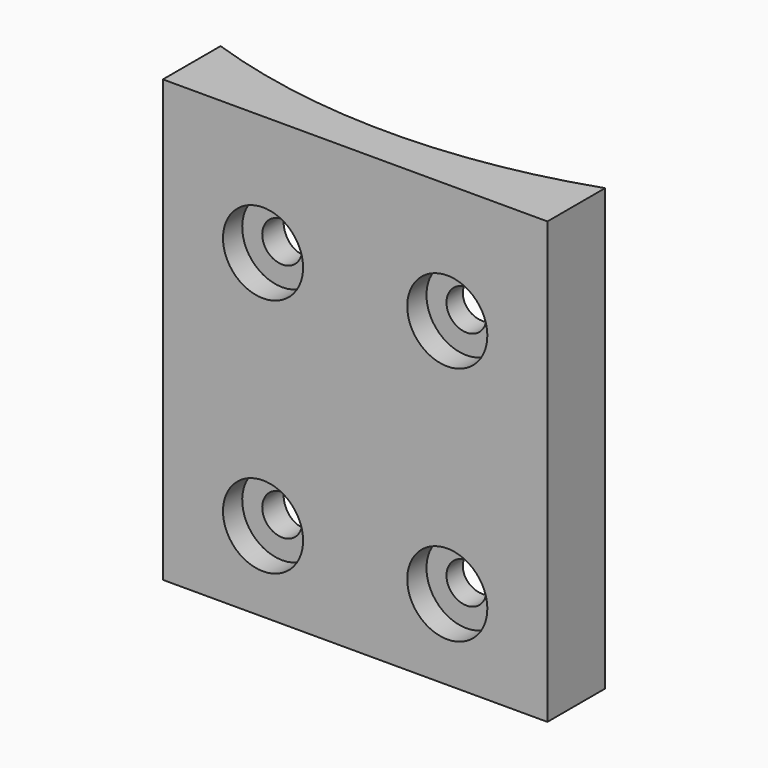
from build123d import *

# Parameters (mm, degrees)
CYLINDER1836_R              = 5
CYLINDER1836_DEPTH          = 5
CYLINDER1839_R              = 5
CYLINDER1839_DEPTH          = 5
COMPOUND945_PLACEMENT_ANGLE = 90
CYLINDER1837_R              = 5
CYLINDER1837_DEPTH          = 5
CYLINDER1838_R              = 5
CYLINDER1838_DEPTH          = 5
COMPOUND944_PLACEMENT_ANGLE = 90
CYLINDER1834_R              = 2.5
CYLINDER1834_DEPTH          = 40
CYLINDER1835_R              = 2.5
CYLINDER1835_DEPTH          = 40
COMPOUND934_PLACEMENT_ANGLE = 90
CYLINDER1832_R              = 2.5
CYLINDER1832_DEPTH          = 40
CYLINDER1833_R              = 2.5
CYLINDER1833_DEPTH          = 40
COMPOUND933_PLACEMENT_ANGLE = 90
CYLINDER970_R               = 74
CYLINDER970_DEPTH           = 64
BOX481_W                    = 10
BOX481_H                    = 48
BOX481_DEPTH                = 55


with BuildPart() as obj1:
    # Cylinder1836 → Cylinder1836 (new body)
    with BuildSketch(Plane(origin=(-86, -10, 69), x_dir=(0, 0, -1), z_dir=(1, 0, 0))):
        Circle(CYLINDER1836_R)
    extrude(amount=CYLINDER1836_DEPTH)


with BuildPart() as compound945:
    # Cylinder1839 → Cylinder1839 (new body)
    with BuildSketch(Plane(origin=(-86, -10, 39), x_dir=(0, 0, -1), z_dir=(1, 0, 0))):
        Circle(CYLINDER1839_R)
    extrude(amount=CYLINDER1839_DEPTH)

    # Compound945: union obj1
    add(obj1.part)


with BuildPart() as compound945_1:
    # Compound945 placement: moved
    add(compound945.part.moved(Location((-21.5, 0, 0))).rotate(Axis((-21.5, 0, 0), (0, 0, 1)), COMPOUND945_PLACEMENT_ANGLE))


with BuildPart() as obj2:
    # Cylinder1837 → Cylinder1837 (new body)
    with BuildSketch(Plane(origin=(-86, -10, 69), x_dir=(0, 0, -1), z_dir=(1, 0, 0))):
        Circle(CYLINDER1837_R)
    extrude(amount=CYLINDER1837_DEPTH)


with BuildPart() as compound946:
    # Cylinder1838 → Cylinder1838 (new body)
    with BuildSketch(Plane(origin=(-86, -10, 39), x_dir=(0, 0, -1), z_dir=(1, 0, 0))):
        Circle(CYLINDER1838_R)
    extrude(amount=CYLINDER1838_DEPTH)

    # Compound944: union obj2
    add(obj2.part)


with BuildPart() as compound946_1:
    # Compound944 placement: moved
    add(compound946.part.moved(Location((1.5, 0, 0))).rotate(Axis((1.5, 0, 0), (0, 0, 1)), COMPOUND944_PLACEMENT_ANGLE))

    # Compound946: union Compound945
    add(compound945_1.part)


with BuildPart() as compound946_2:
    # Compound946 placement: moved
    add(compound946_1.part.moved(Location((0, 5, 0))))


with BuildPart() as obj3:
    # Cylinder1834 → Cylinder1834 (new body)
    with BuildSketch(Plane(origin=(-86, -10, 69), x_dir=(0, 0, -1), z_dir=(1, 0, 0))):
        Circle(CYLINDER1834_R)
    extrude(amount=CYLINDER1834_DEPTH)


with BuildPart() as compound934:
    # Cylinder1835 → Cylinder1835 (new body)
    with BuildSketch(Plane(origin=(-86, -10, 39), x_dir=(0, 0, -1), z_dir=(1, 0, 0))):
        Circle(CYLINDER1835_R)
    extrude(amount=CYLINDER1835_DEPTH)

    # Compound934: union obj3
    add(obj3.part)


with BuildPart() as compound934_1:
    # Compound934 placement: moved
    add(compound934.part.moved(Location((-21.5, 0, 0))).rotate(Axis((-21.5, 0, 0), (0, 0, 1)), COMPOUND934_PLACEMENT_ANGLE))


with BuildPart() as obj4:
    # Cylinder1832 → Cylinder1832 (new body)
    with BuildSketch(Plane(origin=(-86, -10, 69), x_dir=(0, 0, -1), z_dir=(1, 0, 0))):
        Circle(CYLINDER1832_R)
    extrude(amount=CYLINDER1832_DEPTH)


with BuildPart() as compound939:
    # Cylinder1833 → Cylinder1833 (new body)
    with BuildSketch(Plane(origin=(-86, -10, 39), x_dir=(0, 0, -1), z_dir=(1, 0, 0))):
        Circle(CYLINDER1833_R)
    extrude(amount=CYLINDER1833_DEPTH)

    # Compound933: union obj4
    add(obj4.part)


with BuildPart() as compound939_1:
    # Compound933 placement: moved
    add(compound939.part.moved(Location((1.5, 0, 0))).rotate(Axis((1.5, 0, 0), (0, 0, 1)), COMPOUND933_PLACEMENT_ANGLE))

    # Compound939: union Compound934
    add(compound934_1.part)


with BuildPart() as obj5:
    # Cylinder970 → Cylinder970 (new body)
    with BuildSketch(Plane.XY.offset(27)):
        Circle(CYLINDER970_R)
    extrude(amount=CYLINDER970_DEPTH)


with BuildPart() as cut596:
    # Box481 → Box481 (new body)
    with BuildSketch(Plane(origin=(24, -79, 29), x_dir=(0, 1, 0), z_dir=(0, 0, 1))):
        with Locations((5, 24)):
            Rectangle(BOX481_W, BOX481_H)
    extrude(amount=BOX481_DEPTH)

    # Cut450: cut obj5
    add(obj5.part, mode=Mode.SUBTRACT)

    # Cut595: cut Compound939
    add(compound939_1.part, mode=Mode.SUBTRACT)

    # Cut596: cut Compound946
    add(compound946_2.part, mode=Mode.SUBTRACT)


solid = cut596.part
